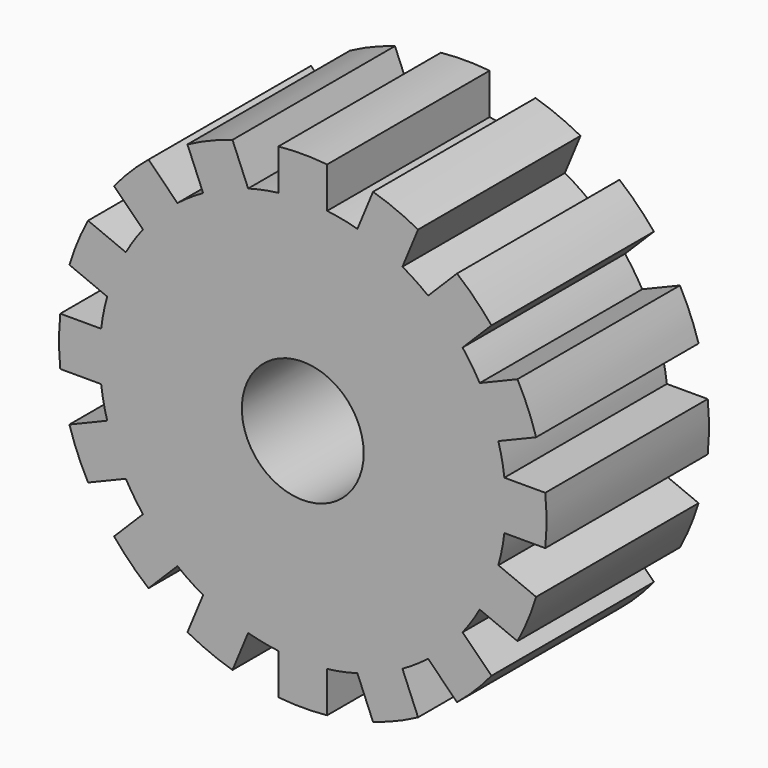
from build123d import *

# Parameters (mm, degrees)
F0_R     = 7.5
F1_DEPTH = 25


with BuildPart() as f1:
    # F0 (on Front) → F1 (new body)
    with BuildSketch(Plane.XZ):
        with BuildLine():
            Line((3, 24.819347), (3, 29.849623))
            ThreePointArc((3, 29.849623), (0, 30), (-3, 29.849623))
            Line((-3, 29.849623), (-3, 24.819347))
            ThreePointArc((-3, 24.819347), (-4.877258, 24.519632), (-6.726314, 24.078137))
            ThreePointArc((-6.726314, 24.078137), (-9.567086, 23.096988), (-12.269592, 21.782037))
            ThreePointArc((-12.269592, 21.782037), (-13.889256, 20.78674), (-15.428608, 19.671249))
            ThreePointArc((-15.428608, 19.671249), (-17.67767, 17.67767), (-19.671249, 15.428608))
            ThreePointArc((-19.671249, 15.428608), (-20.78674, 13.889256), (-21.782037, 12.269592))
            ThreePointArc((-21.782037, 12.269592), (-23.096988, 9.567086), (-24.078137, 6.726314))
            ThreePointArc((-24.078137, 6.726314), (-24.519632, 4.877258), (-24.819347, 3))
            ThreePointArc((-24.819347, 3), (-25, 0), (-24.819347, -3))
            ThreePointArc((-24.819347, -3), (-24.519632, -4.877258), (-24.078137, -6.726314))
            ThreePointArc((-24.078137, -6.726314), (-23.096988, -9.567086), (-21.782037, -12.269592))
            ThreePointArc((-21.782037, -12.269592), (-20.78674, -13.889256), (-19.671249, -15.428608))
            ThreePointArc((-19.671249, -15.428608), (-17.67767, -17.67767), (-15.428608, -19.671249))
            ThreePointArc((-15.428608, -19.671249), (-13.889256, -20.78674), (-12.269592, -21.782037))
            ThreePointArc((-12.269592, -21.782037), (-9.567086, -23.096988), (-6.726314, -24.078137))
            ThreePointArc((-6.726314, -24.078137), (-4.877258, -24.519632), (-3, -24.819347))
            ThreePointArc((-3, -24.819347), (0, -25), (3, -24.819347))
            ThreePointArc((3, -24.819347), (4.877258, -24.519632), (6.726314, -24.078137))
            ThreePointArc((6.726314, -24.078137), (9.567086, -23.096988), (12.269592, -21.782037))
            ThreePointArc((12.269592, -21.782037), (13.889256, -20.78674), (15.428608, -19.671249))
            ThreePointArc((15.428608, -19.671249), (17.67767, -17.67767), (19.671249, -15.428608))
            ThreePointArc((19.671249, -15.428608), (20.78674, -13.889256), (21.782037, -12.269592))
            ThreePointArc((21.782037, -12.269592), (23.096988, -9.567086), (24.078137, -6.726314))
            ThreePointArc((24.078137, -6.726314), (24.519632, -4.877258), (24.819347, -3))
            ThreePointArc((24.819347, -3), (25, 0), (24.819347, 3))
            ThreePointArc((24.819347, 3), (24.519632, 4.877258), (24.078137, 6.726314))
            ThreePointArc((24.078137, 6.726314), (23.096988, 9.567086), (21.782037, 12.269592))
            ThreePointArc((21.782037, 12.269592), (20.78674, 13.889256), (19.671249, 15.428608))
            ThreePointArc((19.671249, 15.428608), (17.67767, 17.67767), (15.428608, 19.671249))
            ThreePointArc((15.428608, 19.671249), (13.889256, 20.78674), (12.269592, 21.782037))
            ThreePointArc((12.269592, 21.782037), (9.567086, 23.096988), (6.726314, 24.078137))
            ThreePointArc((6.726314, 24.078137), (4.877258, 24.519632), (3, 24.819347))
        make_face()
        Circle(F0_R, mode=Mode.SUBTRACT)
        with BuildLine():
            Line((8.651318, 28.725506), (6.726314, 24.078137))
            ThreePointArc((6.726314, 24.078137), (9.567086, 23.096988), (12.269592, 21.782037))
            Line((12.269592, 21.782037), (14.194595, 26.429406))
            ThreePointArc((14.194595, 26.429406), (11.480503, 27.716386), (8.651318, 28.725506))
        make_face()
        with BuildLine():
            ThreePointArc((-12.269592, 21.782037), (-9.567086, 23.096988), (-6.726314, 24.078137))
            Line((-6.726314, 24.078137), (-8.651318, 28.725506))
            ThreePointArc((-8.651318, 28.725506), (-11.480503, 27.716386), (-14.194595, 26.429406))
            Line((-14.194595, 26.429406), (-12.269592, 21.782037))
        make_face()
        with BuildLine():
            Line((18.985551, 23.228191), (15.428608, 19.671249))
            ThreePointArc((15.428608, 19.671249), (17.67767, 17.67767), (19.671249, 15.428608))
            Line((19.671249, 15.428608), (23.228191, 18.985551))
            ThreePointArc((23.228191, 18.985551), (21.213203, 21.213203), (18.985551, 23.228191))
        make_face()
        with BuildLine():
            ThreePointArc((-19.671249, 15.428608), (-17.67767, 17.67767), (-15.428608, 19.671249))
            Line((-15.428608, 19.671249), (-18.985551, 23.228191))
            ThreePointArc((-18.985551, 23.228191), (-21.213203, 21.213203), (-23.228191, 18.985551))
            Line((-23.228191, 18.985551), (-19.671249, 15.428608))
        make_face()
        with BuildLine():
            Line((26.429406, 14.194595), (21.782037, 12.269592))
            ThreePointArc((21.782037, 12.269592), (23.096988, 9.567086), (24.078137, 6.726314))
            Line((24.078137, 6.726314), (28.725506, 8.651318))
            ThreePointArc((28.725506, 8.651318), (27.716386, 11.480503), (26.429406, 14.194595))
        make_face()
        with BuildLine():
            ThreePointArc((-24.078137, 6.726314), (-23.096988, 9.567086), (-21.782037, 12.269592))
            Line((-21.782037, 12.269592), (-26.429406, 14.194595))
            ThreePointArc((-26.429406, 14.194595), (-27.716386, 11.480503), (-28.725506, 8.651318))
            Line((-28.725506, 8.651318), (-24.078137, 6.726314))
        make_face()
        with BuildLine():
            Line((29.849623, 3), (24.819347, 3))
            ThreePointArc((24.819347, 3), (25, 0), (24.819347, -3))
            Line((24.819347, -3), (29.849623, -3))
            ThreePointArc((29.849623, -3), (30, 0), (29.849623, 3))
        make_face()
        with BuildLine():
            ThreePointArc((-24.819347, -3), (-25, 0), (-24.819347, 3))
            Line((-24.819347, 3), (-29.849623, 3))
            ThreePointArc((-29.849623, 3), (-30, 0), (-29.849623, -3))
            Line((-29.849623, -3), (-24.819347, -3))
        make_face()
        with BuildLine():
            Line((28.725506, -8.651318), (24.078137, -6.726314))
            ThreePointArc((24.078137, -6.726314), (23.096988, -9.567086), (21.782037, -12.269592))
            Line((21.782037, -12.269592), (26.429406, -14.194595))
            ThreePointArc((26.429406, -14.194595), (27.716386, -11.480503), (28.725506, -8.651318))
        make_face()
        with BuildLine():
            ThreePointArc((-21.782037, -12.269592), (-23.096988, -9.567086), (-24.078137, -6.726314))
            Line((-24.078137, -6.726314), (-28.725506, -8.651318))
            ThreePointArc((-28.725506, -8.651318), (-27.716386, -11.480503), (-26.429406, -14.194595))
            Line((-26.429406, -14.194595), (-21.782037, -12.269592))
        make_face()
        with BuildLine():
            Line((23.228191, -18.985551), (19.671249, -15.428608))
            ThreePointArc((19.671249, -15.428608), (17.67767, -17.67767), (15.428608, -19.671249))
            Line((15.428608, -19.671249), (18.985551, -23.228191))
            ThreePointArc((18.985551, -23.228191), (21.213203, -21.213203), (23.228191, -18.985551))
        make_face()
        with BuildLine():
            ThreePointArc((-15.428608, -19.671249), (-17.67767, -17.67767), (-19.671249, -15.428608))
            Line((-19.671249, -15.428608), (-23.228191, -18.985551))
            ThreePointArc((-23.228191, -18.985551), (-21.213203, -21.213203), (-18.985551, -23.228191))
            Line((-18.985551, -23.228191), (-15.428608, -19.671249))
        make_face()
        with BuildLine():
            Line((14.194595, -26.429406), (12.269592, -21.782037))
            ThreePointArc((12.269592, -21.782037), (9.567086, -23.096988), (6.726314, -24.078137))
            Line((6.726314, -24.078137), (8.651318, -28.725506))
            ThreePointArc((8.651318, -28.725506), (11.480503, -27.716386), (14.194595, -26.429406))
        make_face()
        with BuildLine():
            ThreePointArc((-6.726314, -24.078137), (-9.567086, -23.096988), (-12.269592, -21.782037))
            Line((-12.269592, -21.782037), (-14.194595, -26.429406))
            ThreePointArc((-14.194595, -26.429406), (-11.480503, -27.716386), (-8.651318, -28.725506))
            Line((-8.651318, -28.725506), (-6.726314, -24.078137))
        make_face()
        with BuildLine():
            Line((3, -29.849623), (3, -24.819347))
            ThreePointArc((3, -24.819347), (0, -25), (-3, -24.819347))
            Line((-3, -24.819347), (-3, -29.849623))
            ThreePointArc((-3, -29.849623), (0, -30), (3, -29.849623))
        make_face()
    extrude(amount=F1_DEPTH)


solid = f1.part
